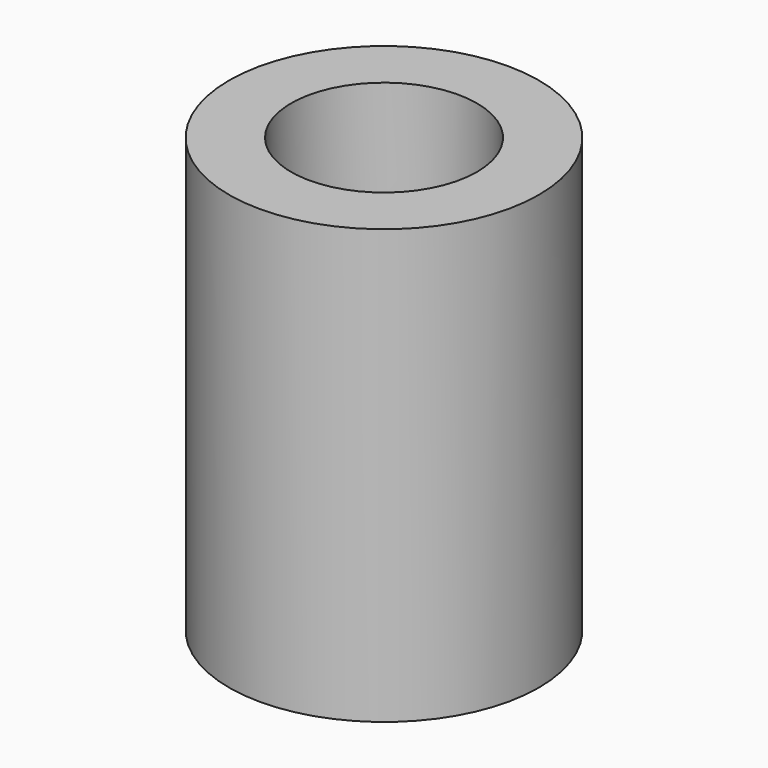
from build123d import *

# Parameters (mm, degrees)
F0_R      = 12.7
F1_DEPTH  = 35.56
F2_R      = 7.62
F2_R_2    = 2.54
F3_DEPTH  = 10.16
F3_FACE_R = 2.54
F4_DEPTH  = 30.48


with BuildPart() as f1:
    # F0 (on Top) → F1 (new body)
    with BuildSketch(Plane.XY):
        Circle(F0_R)
    extrude(amount=F1_DEPTH)

    # F2 (on face) → F3 (cut)
    with BuildSketch(Plane.XY.offset(35.56)):
        Circle(F2_R)
        Circle(F2_R_2, mode=Mode.SUBTRACT)
    extrude(amount=-F3_DEPTH, mode=Mode.SUBTRACT)

    # F3_face (on face) → F4 (cut)
    with BuildSketch(Plane.XY.offset(35.56)):
        Circle(F3_FACE_R)
    extrude(amount=-F4_DEPTH, mode=Mode.SUBTRACT)


solid = f1.part
